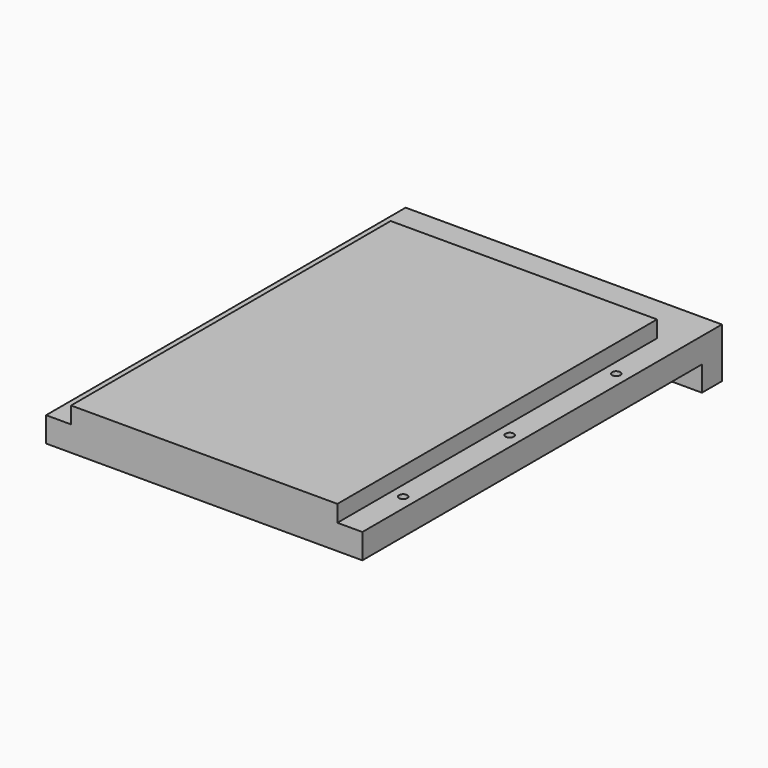
from build123d import *

# Parameters (mm, degrees)
F0_W     = 203.2
F0_H     = 304.8
F1_DEPTH = 12.7
F2_W     = 241.3
F2_H     = 342.9
F3_DEPTH = 19.05
F4_W     = 241.3
F4_H     = 19.05
F5_DEPTH = 19.05
F6_R     = 3.175
F7_DEPTH = 25.4


with BuildPart() as f1:
    # F0 (on Top) → F1 (new body)
    with BuildSketch(Plane.XY):
        Rectangle(F0_W, F0_H)
    extrude(amount=F1_DEPTH)

    # F2 (on face) → F3 (join)
    with BuildSketch(Plane(origin=(0, 0, 0), x_dir=(1, 0, 0), z_dir=(0, 0, -1))):
        with Locations((0, -19.05)):
            Rectangle(F2_W, F2_H)
    extrude(amount=F3_DEPTH)

    # F4 (on face) → F5 (join)
    with BuildSketch(Plane(origin=(0, 0, -19.05), x_dir=(1, 0, 0), z_dir=(0, 0, -1))):
        with Locations((0, -180.975)):
            Rectangle(F4_W, F4_H)
    extrude(amount=F5_DEPTH)

    # F6 (on face) → F7 (cut)
    with BuildSketch(Plane.XY):
        with Locations((0, 161.925)):
            Circle(F6_R)
        with Locations((111.125, 101.6)):
            Circle(F6_R)
        with Locations((111.125, -101.6)):
            Circle(F6_R)
        with Locations((111.125, 0)):
            Circle(F6_R)
        with Locations((-111.125, 101.6)):
            Circle(F6_R)
        with Locations((-111.125, 0)):
            Circle(F6_R)
        with Locations((-111.125, -101.6)):
            Circle(F6_R)
    extrude(amount=-F7_DEPTH, mode=Mode.SUBTRACT)


solid = f1.part
